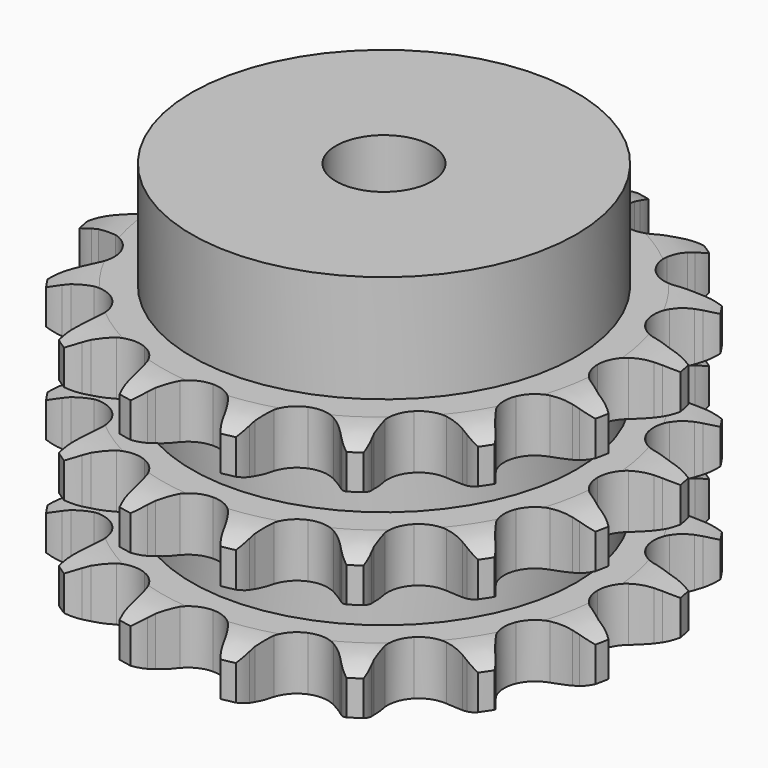
from build123d import *

# Parameters (mm, degrees)
PAD_DEPTH         = 42.1
SKETCH001_R       = 32
PAD001_DEPTH      = 60
SKETCH002_R       = 8
POCKET_DEPTH      = 0.001
POCKET_DEPTH_BACK = 60.001


with BuildPart() as part:
    # Sprocket → Pad (new body)
    with BuildSketch(Plane.XY):
        with BuildLine():
            ThreePointArc((-8.888607, 44.686043), (-7.354381, 43.203794), (-6.239878, 41.384785))
            Line((-6.239878, 41.384785), (-5.761549, 40.322933))
            ThreePointArc((-5.761549, 40.322933), (-4.976913, 38.839449), (-4.011336, 37.466845))
            ThreePointArc((-4.011336, 37.466845), (-2.224457, 36.048677), (0, 35.542783))
            ThreePointArc((0, 35.542783), (2.224457, 36.048677), (4.011336, 37.466845))
            ThreePointArc((4.011336, 37.466845), (4.976913, 38.839449), (5.761549, 40.322933))
            Line((5.761549, 40.322933), (6.239878, 41.384785))
            ThreePointArc((6.239878, 41.384785), (7.354381, 43.203794), (8.888607, 44.686043))
            ThreePointArc((8.888607, 44.686043), (9.738814, 42.729501), (10.072376, 40.622454))
            Line((10.072376, 40.622454), (10.107941, 39.458382))
            ThreePointArc((10.107941, 39.458382), (10.265146, 37.787554), (10.63195, 36.149923))
            ThreePointArc((10.63195, 36.149923), (11.740101, 34.155898), (13.601634, 32.837249))
            ThreePointArc((13.601634, 32.837249), (15.850362, 32.453372), (18.043932, 33.07978))
            Line((18.043932, 33.07978), (20.753896, 35.048684))
            ThreePointArc((20.753896, 35.048684), (21.169274, 35.45698), (21.602168, 35.846658))
            ThreePointArc((21.602168, 35.846658), (23.327939, 37.100701), (25.31261, 37.882998))
            ThreePointArc((25.31261, 37.882998), (25.349363, 35.750029), (24.851202, 33.675723))
            Line((24.851202, 33.675723), (24.438589, 32.58665))
            ThreePointArc((24.438589, 32.58665), (23.944429, 30.982847), (23.656618, 29.329503))
            ThreePointArc((23.656618, 29.329503), (23.917336, 27.063193), (25.132543, 25.132543))
            ThreePointArc((25.132543, 25.132543), (27.063193, 23.917336), (29.329503, 23.656618))
            Line((29.329503, 23.656618), (32.58665, 24.438589))
            ThreePointArc((32.58665, 24.438589), (33.126658, 24.656848), (33.675723, 24.851202))
            ThreePointArc((33.675723, 24.851202), (35.750029, 25.349363), (37.882998, 25.31261))
            ThreePointArc((37.882998, 25.31261), (37.100701, 23.327939), (35.846658, 21.602168))
            Line((35.846658, 21.602168), (35.048684, 20.753896))
            ThreePointArc((35.048684, 20.753896), (33.97839, 19.461282), (33.07978, 18.043932))
            ThreePointArc((33.07978, 18.043932), (32.453372, 15.850362), (32.837249, 13.601634))
            ThreePointArc((32.837249, 13.601634), (34.155898, 11.740101), (36.149923, 10.63195))
            Line((36.149923, 10.63195), (39.458382, 10.107941))
            ThreePointArc((39.458382, 10.107941), (40.040808, 10.102934), (40.622454, 10.072376))
            ThreePointArc((40.622454, 10.072376), (42.729501, 9.738814), (44.686043, 8.888607))
            ThreePointArc((44.686043, 8.888607), (43.203794, 7.354381), (41.384785, 6.239878))
            Line((41.384785, 6.239878), (40.322933, 5.761549))
            ThreePointArc((40.322933, 5.761549), (38.839449, 4.976913), (37.466845, 4.011336))
            ThreePointArc((37.466845, 4.011336), (36.048677, 2.224457), (35.542783, 0))
            ThreePointArc((35.542783, 0), (36.048677, -2.224457), (37.466845, -4.011336))
            Line((37.466845, -4.011336), (40.322933, -5.761549))
            ThreePointArc((40.322933, -5.761549), (40.859109, -5.98906), (41.384785, -6.239878))
            ThreePointArc((41.384785, -6.239878), (43.203794, -7.354381), (44.686043, -8.888607))
            ThreePointArc((44.686043, -8.888607), (42.729501, -9.738814), (40.622454, -10.072376))
            Line((40.622454, -10.072376), (39.458382, -10.107941))
            ThreePointArc((39.458382, -10.107941), (37.787554, -10.265146), (36.149923, -10.63195))
            ThreePointArc((36.149923, -10.63195), (34.155898, -11.740101), (32.837249, -13.601634))
            ThreePointArc((32.837249, -13.601634), (32.453372, -15.850362), (33.07978, -18.043932))
            Line((33.07978, -18.043932), (35.048684, -20.753896))
            ThreePointArc((35.048684, -20.753896), (35.45698, -21.169274), (35.846658, -21.602168))
            ThreePointArc((35.846658, -21.602168), (37.100701, -23.327939), (37.882998, -25.31261))
            ThreePointArc((37.882998, -25.31261), (35.750029, -25.349363), (33.675723, -24.851202))
            Line((33.675723, -24.851202), (32.58665, -24.438589))
            ThreePointArc((32.58665, -24.438589), (30.982847, -23.944429), (29.329503, -23.656618))
            ThreePointArc((29.329503, -23.656618), (27.063193, -23.917336), (25.132543, -25.132543))
            ThreePointArc((25.132543, -25.132543), (23.917336, -27.063193), (23.656618, -29.329503))
            Line((23.656618, -29.329503), (24.438589, -32.58665))
            ThreePointArc((24.438589, -32.58665), (24.656848, -33.126658), (24.851202, -33.675723))
            ThreePointArc((24.851202, -33.675723), (25.349363, -35.750029), (25.31261, -37.882998))
            ThreePointArc((25.31261, -37.882998), (23.327939, -37.100701), (21.602168, -35.846658))
            Line((21.602168, -35.846658), (20.753896, -35.048684))
            ThreePointArc((20.753896, -35.048684), (19.461282, -33.97839), (18.043932, -33.07978))
            ThreePointArc((18.043932, -33.07978), (15.850362, -32.453372), (13.601634, -32.837249))
            ThreePointArc((13.601634, -32.837249), (11.740101, -34.155898), (10.63195, -36.149923))
            Line((10.63195, -36.149923), (10.107941, -39.458382))
            ThreePointArc((10.107941, -39.458382), (10.102934, -40.040808), (10.072376, -40.622454))
            ThreePointArc((10.072376, -40.622454), (9.738814, -42.729501), (8.888607, -44.686043))
            ThreePointArc((8.888607, -44.686043), (7.354381, -43.203794), (6.239878, -41.384785))
            Line((6.239878, -41.384785), (5.761549, -40.322933))
            ThreePointArc((5.761549, -40.322933), (4.976913, -38.839449), (4.011336, -37.466845))
            ThreePointArc((4.011336, -37.466845), (2.224457, -36.048677), (0, -35.542783))
            ThreePointArc((0, -35.542783), (-2.224457, -36.048677), (-4.011336, -37.466845))
            Line((-4.011336, -37.466845), (-5.761549, -40.322933))
            ThreePointArc((-5.761549, -40.322933), (-5.98906, -40.859109), (-6.239878, -41.384785))
            ThreePointArc((-6.239878, -41.384785), (-7.354381, -43.203794), (-8.888607, -44.686043))
            ThreePointArc((-8.888607, -44.686043), (-9.738814, -42.729501), (-10.072376, -40.622454))
            Line((-10.072376, -40.622454), (-10.107941, -39.458382))
            ThreePointArc((-10.107941, -39.458382), (-10.265146, -37.787554), (-10.63195, -36.149923))
            ThreePointArc((-10.63195, -36.149923), (-11.740101, -34.155898), (-13.601634, -32.837249))
            ThreePointArc((-13.601634, -32.837249), (-15.850362, -32.453372), (-18.043932, -33.07978))
            Line((-18.043932, -33.07978), (-20.753896, -35.048684))
            ThreePointArc((-20.753896, -35.048684), (-21.169274, -35.45698), (-21.602168, -35.846658))
            ThreePointArc((-21.602168, -35.846658), (-23.327939, -37.100701), (-25.31261, -37.882998))
            ThreePointArc((-25.31261, -37.882998), (-25.349363, -35.750029), (-24.851202, -33.675723))
            Line((-24.851202, -33.675723), (-24.438589, -32.58665))
            ThreePointArc((-24.438589, -32.58665), (-23.944429, -30.982847), (-23.656618, -29.329503))
            ThreePointArc((-23.656618, -29.329503), (-23.917336, -27.063193), (-25.132543, -25.132543))
            ThreePointArc((-25.132543, -25.132543), (-27.063193, -23.917336), (-29.329503, -23.656618))
            Line((-29.329503, -23.656618), (-32.58665, -24.438589))
            ThreePointArc((-32.58665, -24.438589), (-33.126658, -24.656848), (-33.675723, -24.851202))
            ThreePointArc((-33.675723, -24.851202), (-35.750029, -25.349363), (-37.882998, -25.31261))
            ThreePointArc((-37.882998, -25.31261), (-37.100701, -23.327939), (-35.846658, -21.602168))
            Line((-35.846658, -21.602168), (-35.048684, -20.753896))
            ThreePointArc((-35.048684, -20.753896), (-33.97839, -19.461282), (-33.07978, -18.043932))
            ThreePointArc((-33.07978, -18.043932), (-32.453372, -15.850362), (-32.837249, -13.601634))
            ThreePointArc((-32.837249, -13.601634), (-34.155898, -11.740101), (-36.149923, -10.63195))
            Line((-36.149923, -10.63195), (-39.458382, -10.107941))
            ThreePointArc((-39.458382, -10.107941), (-40.040808, -10.102934), (-40.622454, -10.072376))
            ThreePointArc((-40.622454, -10.072376), (-42.729501, -9.738814), (-44.686043, -8.888607))
            ThreePointArc((-44.686043, -8.888607), (-43.203794, -7.354381), (-41.384785, -6.239878))
            Line((-41.384785, -6.239878), (-40.322933, -5.761549))
            ThreePointArc((-40.322933, -5.761549), (-38.839449, -4.976913), (-37.466845, -4.011336))
            ThreePointArc((-37.466845, -4.011336), (-36.048677, -2.224457), (-35.542783, 0))
            ThreePointArc((-35.542783, 0), (-36.048677, 2.224457), (-37.466845, 4.011336))
            Line((-37.466845, 4.011336), (-40.322933, 5.761549))
            ThreePointArc((-40.322933, 5.761549), (-40.859109, 5.98906), (-41.384785, 6.239878))
            ThreePointArc((-41.384785, 6.239878), (-43.203794, 7.354381), (-44.686043, 8.888607))
            ThreePointArc((-44.686043, 8.888607), (-42.729501, 9.738814), (-40.622454, 10.072376))
            Line((-40.622454, 10.072376), (-39.458382, 10.107941))
            ThreePointArc((-39.458382, 10.107941), (-37.787554, 10.265146), (-36.149923, 10.63195))
            ThreePointArc((-36.149923, 10.63195), (-34.155898, 11.740101), (-32.837249, 13.601634))
            ThreePointArc((-32.837249, 13.601634), (-32.453372, 15.850362), (-33.07978, 18.043932))
            Line((-33.07978, 18.043932), (-35.048684, 20.753896))
            ThreePointArc((-35.048684, 20.753896), (-35.45698, 21.169274), (-35.846658, 21.602168))
            ThreePointArc((-35.846658, 21.602168), (-37.100701, 23.327939), (-37.882998, 25.31261))
            ThreePointArc((-37.882998, 25.31261), (-35.750029, 25.349363), (-33.675723, 24.851202))
            Line((-33.675723, 24.851202), (-32.58665, 24.438589))
            ThreePointArc((-32.58665, 24.438589), (-30.982847, 23.944429), (-29.329503, 23.656618))
            ThreePointArc((-29.329503, 23.656618), (-27.063193, 23.917336), (-25.132543, 25.132543))
            ThreePointArc((-25.132543, 25.132543), (-23.917336, 27.063193), (-23.656618, 29.329503))
            Line((-23.656618, 29.329503), (-24.438589, 32.58665))
            ThreePointArc((-24.438589, 32.58665), (-24.656848, 33.126658), (-24.851202, 33.675723))
            ThreePointArc((-24.851202, 33.675723), (-25.349363, 35.750029), (-25.31261, 37.882998))
            ThreePointArc((-25.31261, 37.882998), (-23.327939, 37.100701), (-21.602168, 35.846658))
            Line((-21.602168, 35.846658), (-20.753896, 35.048684))
            ThreePointArc((-20.753896, 35.048684), (-19.461282, 33.97839), (-18.043932, 33.07978))
            ThreePointArc((-18.043932, 33.07978), (-15.850362, 32.453372), (-13.601634, 32.837249))
            ThreePointArc((-13.601634, 32.837249), (-11.740101, 34.155898), (-10.63195, 36.149923))
            Line((-10.63195, 36.149923), (-10.107941, 39.458382))
            ThreePointArc((-10.107941, 39.458382), (-10.102934, 40.040808), (-10.072376, 40.622454))
            ThreePointArc((-10.072376, 40.622454), (-9.738814, 42.729501), (-8.888607, 44.686043))
        make_face()
    extrude(amount=PAD_DEPTH)

    # Sketch → Groove (revolve, cut)
    with BuildSketch(Plane.XZ):
        with BuildLine():
            ThreePointArc((37.025762, 0), (40.60347, 0.405129), (44, 1.6))
            Line((44, 1.6), (44, 7.4))
            ThreePointArc((44, 7.4), (40.60347, 8.594871), (37.025762, 9))
            Line((32, 9), (37.025762, 9))
            Line((32, 9), (32, 16.55))
            Line((32, 16.55), (37.025762, 16.55))
            ThreePointArc((37.025762, 16.55), (40.60347, 16.955129), (44, 18.15))
            Line((44, 23.95), (44, 18.15))
            ThreePointArc((44, 23.95), (40.60347, 25.144871), (37.025762, 25.55))
            Line((32, 25.55), (37.025762, 25.55))
            Line((32, 33.1), (32, 25.55))
            Line((37.025762, 33.1), (32, 33.1))
            ThreePointArc((37.025762, 33.1), (40.60347, 33.505129), (44, 34.7))
            Line((44, 34.7), (44, 40.5))
            ThreePointArc((44, 40.5), (40.60347, 41.694871), (37.025762, 42.1))
            Line((37.025762, 42.1), (54, 42.1))
            Line((54, 42.1), (54, 0))
            Line((37.025762, 0), (54, 0))
        make_face()
    revolve(axis=Axis((0, 0, 0), (0, 0, 1)), mode=Mode.SUBTRACT)

    # Sketch001 → Pad001 (join)
    with BuildSketch(Plane.XY):
        Circle(SKETCH001_R)
    extrude(amount=PAD001_DEPTH)

    # Sketch002 → Pocket (cut, two sides)
    with BuildSketch(Plane.XY) as pocket_sk:
        Circle(SKETCH002_R)
    extrude(amount=-POCKET_DEPTH, mode=Mode.SUBTRACT)
    extrude(pocket_sk.sketch, amount=POCKET_DEPTH_BACK, mode=Mode.SUBTRACT)


solid = part.part
